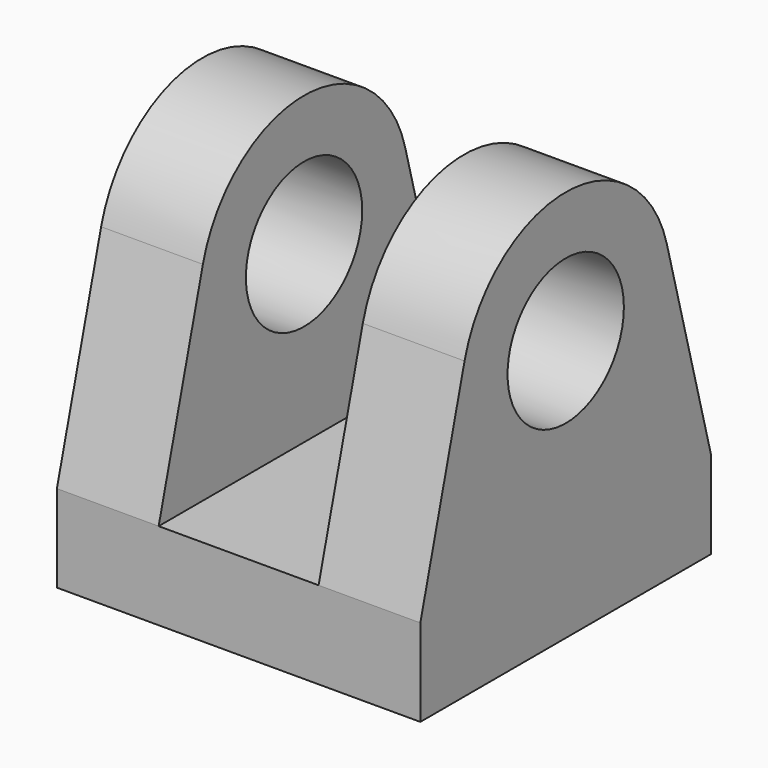
from build123d import *

# Parameters (mm, degrees)
F0_R     = 10
F1_DEPTH = 50
F2_W     = 22
F2_H     = 51.6468636014
F3_DEPTH = 61.9
F5_D     = 6
F5_DEPTH = 12
F5_TIP   = 1.8025818571


with BuildPart() as f1:
    # F0 (on Right) → F1 (new body)
    with BuildSketch(Plane.YZ):
        with BuildLine():
            Line((0, 12), (0, 0))
            Line((0, 0), (50, 0))
            Line((50, 0), (50, 12))
            Line((50, 12), (42.3966097096, 40.6214684475))
            ThreePointArc((42.3966097096, 40.6214684475), (25, 54), (7.6033902904, 40.6214684475))
            Line((7.6033902904, 40.6214684475), (0, 12))
        make_face()
        with Locations((25, 36)):
            Circle(F0_R, mode=Mode.SUBTRACT)
    extrude(amount=F1_DEPTH)

    # F2 (on face) → F3 (cut)
    with BuildSketch(Plane(origin=(0, 50, 0), x_dir=(-1, 0, 0), z_dir=(0, 1, 0))):
        with Locations((-25, 37.8234318007)):
            Rectangle(F2_W, F2_H)
    extrude(amount=-F3_DEPTH, mode=Mode.SUBTRACT)

    # F5
    with Locations(Plane(origin=(0, 0, 0), x_dir=(1, 0, 0), z_dir=(0, 0, -1))):
        with Locations((7, -6), (7, -44), (43, -44), (43, -6)):
            Hole(F5_D / 2, depth=F5_DEPTH)
            with Locations((0, 0, -(F5_DEPTH + F5_TIP / 2))):  # 118° drill point
                Cone(0, F5_D / 2, F5_TIP, mode=Mode.SUBTRACT)


solid = f1.part
